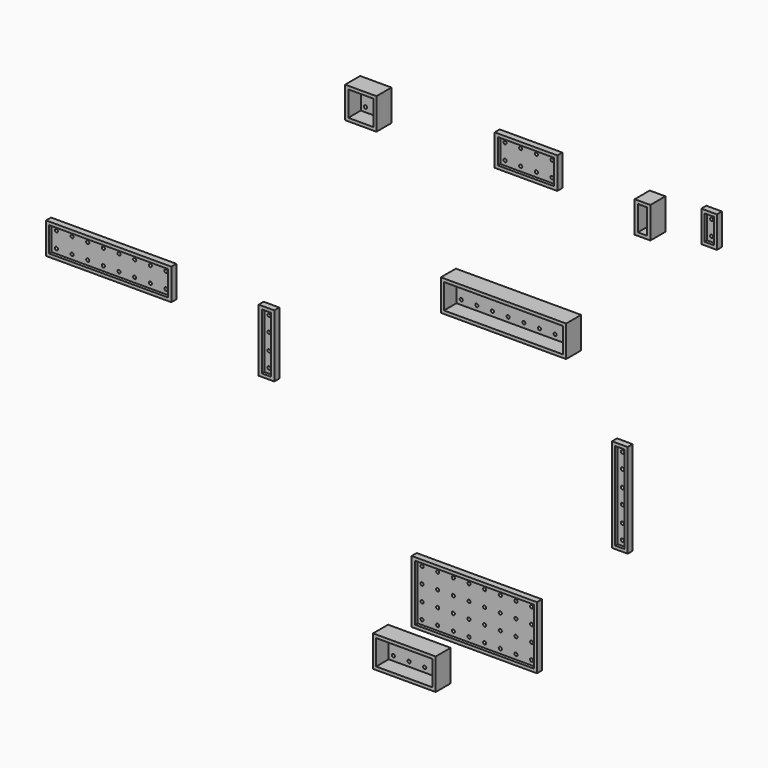
from build123d import *

# Parameters (mm, degrees)
F0_W      = 15.875
F0_H      = 15.875
F0_R      = 2.38125
F1_DEPTH  = 9.525
F2_DEPTH  = 1.5875
F3_T      = -1.5875
F4_DEPTH  = 3.175
F5_DEPTH  = 1.5875
F6_T      = -1.5875
F7_DEPTH  = 9.525
F0_W_2    = 7.9248
F8_DEPTH  = 9.525
F9_DEPTH  = 1.5875
F10_DEPTH = 1.5875
F11_DEPTH = 1.5875
F12_DEPTH = 3.175
F13_DEPTH = 1.5875
F14_DEPTH = 1.5875
F15_DEPTH = 1.5875
F16_T     = -1.5875
F16_2_T   = -1.5875
F16_3_T   = -1.5875
F16_4_T   = -1.5875
F16_5_T   = -1.5875
F16_6_T   = -1.5875
F17_DEPTH = 3.175
F18_DEPTH = 1.5875
F19_DEPTH = 1.5875
F20_T     = -1.5875
F20_2_T   = -1.5875


with BuildPart() as f1:
    # F0 (on Front) → F1 (new body)
    with BuildSketch(Plane.XZ):
        with Locations((-105.0475684885, 118.7287792563)):
            Rectangle(F0_W, F0_H)
        with Locations((-109.0163184885, 114.7600292563)):
            Circle(F0_R, mode=Mode.SUBTRACT)
        with Locations((-101.0788184885, 114.7600292563)):
            Circle(F0_R, mode=Mode.SUBTRACT)
        with Locations((-109.0163184885, 122.6975292563)):
            Circle(F0_R, mode=Mode.SUBTRACT)
        with Locations((-101.0788184885, 122.6975292563)):
            Circle(F0_R, mode=Mode.SUBTRACT)
        with Locations((-109.0163184885, 114.7600292563)):
            Circle(F0_R)
        with Locations((-109.0163184885, 122.6975292563)):
            Circle(F0_R)
        with Locations((-101.0788184885, 122.6975292563)):
            Circle(F0_R)
        with Locations((-101.0788184885, 114.7600292563)):
            Circle(F0_R)
    extrude(amount=F1_DEPTH)

    # F0 (on Front) → F2 (join)
    with BuildSketch(Plane.XZ):
        with Locations((-109.0163184885, 114.7600292563)):
            Circle(F0_R)
        with Locations((-101.0788184885, 114.7600292563)):
            Circle(F0_R)
        with Locations((-109.0163184885, 122.6975292563)):
            Circle(F0_R)
        with Locations((-101.0788184885, 122.6975292563)):
            Circle(F0_R)
    extrude(amount=-F2_DEPTH)

    # F3
    f3_openings = [f1.faces().sort_by_distance(p)[0] for p in [
        (-105.047568, -9.525, 118.728779),
    ]]
    offset(amount=F3_T, openings=f3_openings, kind=Kind.INTERSECTION)


with BuildPart() as f4:
    # F0 (on Front) → F4 (new body)
    with BuildSketch(Plane.XZ):
        with Locations((-18.4135721939, 117.8791224957)):
            Rectangle(F0_W, F0_H)
        with Locations((-22.3823221939, 113.9103724957)):
            Circle(F0_R, mode=Mode.SUBTRACT)
        with Locations((-14.4448221939, 113.9103724957)):
            Circle(F0_R, mode=Mode.SUBTRACT)
        with Locations((-22.3823221939, 121.8478724957)):
            Circle(F0_R, mode=Mode.SUBTRACT)
        with Locations((-14.4448221939, 121.8478724957)):
            Circle(F0_R, mode=Mode.SUBTRACT)
        with Locations((-34.2885721939, 117.8791224957)):
            Rectangle(F0_W, F0_H)
        with Locations((-38.2573221939, 113.9103724957)):
            Circle(F0_R, mode=Mode.SUBTRACT)
        with Locations((-38.2573221939, 121.8478724957)):
            Circle(F0_R, mode=Mode.SUBTRACT)
        with Locations((-30.3198221939, 113.9103724957)):
            Circle(F0_R, mode=Mode.SUBTRACT)
        with Locations((-30.3198221939, 121.8478724957)):
            Circle(F0_R, mode=Mode.SUBTRACT)
        with Locations((-22.3823221939, 121.8478724957)):
            Circle(F0_R)
        with Locations((-22.3823221939, 113.9103724957)):
            Circle(F0_R)
        with Locations((-14.4448221939, 113.9103724957)):
            Circle(F0_R)
        with Locations((-30.3198221939, 113.9103724957)):
            Circle(F0_R)
        with Locations((-38.2573221939, 121.8478724957)):
            Circle(F0_R)
        with Locations((-38.2573221939, 113.9103724957)):
            Circle(F0_R)
        with Locations((-14.4448221939, 121.8478724957)):
            Circle(F0_R)
        with Locations((-30.3198221939, 121.8478724957)):
            Circle(F0_R)
    extrude(amount=F4_DEPTH)

    # F0 (on Front) → F5 (join)
    with BuildSketch(Plane.XZ):
        with Locations((-38.2573221939, 113.9103724957)):
            Circle(F0_R)
        with Locations((-14.4448221939, 121.8478724957)):
            Circle(F0_R)
        with Locations((-30.3198221939, 113.9103724957)):
            Circle(F0_R)
        with Locations((-38.2573221939, 121.8478724957)):
            Circle(F0_R)
        with Locations((-22.3823221939, 113.9103724957)):
            Circle(F0_R)
        with Locations((-14.4448221939, 113.9103724957)):
            Circle(F0_R)
        with Locations((-30.3198221939, 121.8478724957)):
            Circle(F0_R)
        with Locations((-22.3823221939, 121.8478724957)):
            Circle(F0_R)
    extrude(amount=-F5_DEPTH)

    # F6
    f6_openings = [f4.faces().sort_by_distance(p)[0] for p in [
        (-26.351072, -3.175, 117.879122),
    ]]
    offset(amount=F6_T, openings=f6_openings, kind=Kind.INTERSECTION)


with BuildPart() as f7:
    # F0 (on Front) → F7 (new body)
    with BuildSketch(Plane.XZ):
        with Locations((-56.5135721939, 48.5175415816)):
            Rectangle(F0_W, F0_H)
        with Locations((-60.4823221939, 44.5487915816)):
            Circle(F0_R, mode=Mode.SUBTRACT)
        with Locations((-52.5448221939, 44.5487915816)):
            Circle(F0_R, mode=Mode.SUBTRACT)
        with Locations((-60.4823221939, 52.4862915816)):
            Circle(F0_R, mode=Mode.SUBTRACT)
        with Locations((-52.5448221939, 52.4862915816)):
            Circle(F0_R, mode=Mode.SUBTRACT)
        with Locations((-8.8885721939, 48.5175415816)):
            Rectangle(F0_W, F0_H)
        with Locations((-12.8573221939, 44.5487915816)):
            Circle(F0_R, mode=Mode.SUBTRACT)
        with Locations((-4.9198221939, 44.5487915816)):
            Circle(F0_R, mode=Mode.SUBTRACT)
        with Locations((-12.8573221939, 52.4862915816)):
            Circle(F0_R, mode=Mode.SUBTRACT)
        with Locations((-4.9198221939, 52.4862915816)):
            Circle(F0_R, mode=Mode.SUBTRACT)
        with Locations((-24.7635721939, 48.5175415816)):
            Rectangle(F0_W, F0_H)
        with Locations((-28.7323221939, 44.5487915816)):
            Circle(F0_R, mode=Mode.SUBTRACT)
        with Locations((-20.7948221939, 44.5487915816)):
            Circle(F0_R, mode=Mode.SUBTRACT)
        with Locations((-28.7323221939, 52.4862915816)):
            Circle(F0_R, mode=Mode.SUBTRACT)
        with Locations((-20.7948221939, 52.4862915816)):
            Circle(F0_R, mode=Mode.SUBTRACT)
        with Locations((-40.6385721939, 48.5175415816)):
            Rectangle(F0_W, F0_H)
        with Locations((-44.6073221939, 44.5487915816)):
            Circle(F0_R, mode=Mode.SUBTRACT)
        with Locations((-36.6698221939, 44.5487915816)):
            Circle(F0_R, mode=Mode.SUBTRACT)
        with Locations((-44.6073221939, 52.4862915816)):
            Circle(F0_R, mode=Mode.SUBTRACT)
        with Locations((-36.6698221939, 52.4862915816)):
            Circle(F0_R, mode=Mode.SUBTRACT)
        with Locations((-4.9198221939, 52.4862915816)):
            Circle(F0_R)
        with Locations((-12.8573221939, 52.4862915816)):
            Circle(F0_R)
        with Locations((-20.7948221939, 52.4862915816)):
            Circle(F0_R)
        with Locations((-28.7323221939, 52.4862915816)):
            Circle(F0_R)
        with Locations((-28.7323221939, 44.5487915816)):
            Circle(F0_R)
        with Locations((-36.6698221939, 44.5487915816)):
            Circle(F0_R)
        with Locations((-60.4823221939, 52.4862915816)):
            Circle(F0_R)
        with Locations((-52.5448221939, 44.5487915816)):
            Circle(F0_R)
        with Locations((-44.6073221939, 52.4862915816)):
            Circle(F0_R)
        with Locations((-12.8573221939, 44.5487915816)):
            Circle(F0_R)
        with Locations((-52.5448221939, 52.4862915816)):
            Circle(F0_R)
        with Locations((-4.9198221939, 44.5487915816)):
            Circle(F0_R)
        with Locations((-20.7948221939, 44.5487915816)):
            Circle(F0_R)
        with Locations((-44.6073221939, 44.5487915816)):
            Circle(F0_R)
        with Locations((-36.6698221939, 52.4862915816)):
            Circle(F0_R)
        with Locations((-60.4823221939, 44.5487915816)):
            Circle(F0_R)
    extrude(amount=F7_DEPTH)

    # F0 (on Front) → F11 (join)
    with BuildSketch(Plane.XZ):
        with Locations((-52.5448221939, 44.5487915816)):
            Circle(F0_R)
        with Locations((-60.4823221939, 52.4862915816)):
            Circle(F0_R)
        with Locations((-4.9198221939, 52.4862915816)):
            Circle(F0_R)
        with Locations((-12.8573221939, 52.4862915816)):
            Circle(F0_R)
        with Locations((-52.5448221939, 52.4862915816)):
            Circle(F0_R)
        with Locations((-20.7948221939, 44.5487915816)):
            Circle(F0_R)
        with Locations((-44.6073221939, 44.5487915816)):
            Circle(F0_R)
        with Locations((-4.9198221939, 44.5487915816)):
            Circle(F0_R)
        with Locations((-60.4823221939, 44.5487915816)):
            Circle(F0_R)
        with Locations((-28.7323221939, 52.4862915816)):
            Circle(F0_R)
        with Locations((-20.7948221939, 52.4862915816)):
            Circle(F0_R)
        with Locations((-12.8573221939, 44.5487915816)):
            Circle(F0_R)
        with Locations((-36.6698221939, 52.4862915816)):
            Circle(F0_R)
        with Locations((-36.6698221939, 44.5487915816)):
            Circle(F0_R)
        with Locations((-28.7323221939, 44.5487915816)):
            Circle(F0_R)
        with Locations((-44.6073221939, 52.4862915816)):
            Circle(F0_R)
    extrude(amount=-F11_DEPTH)

    # F16#3
    f16_3_openings = [f7.faces().sort_by_distance(p)[0] for p in [
        (-32.701072, -9.525, 48.517542),
    ]]
    offset(amount=F16_3_T, openings=f16_3_openings, kind=Kind.INTERSECTION)


with BuildPart() as f7b:
    # F0 (on Front) → F7, piece 2 (new body)
    with BuildSketch(Plane.XZ):
        with Locations((37.80933712, 115.340793252)):
            Rectangle(F0_W_2, F0_H)
        with Locations((37.80933712, 111.530793252)):
            Circle(F0_R, mode=Mode.SUBTRACT)
        with Locations((37.80933712, 119.138093252)):
            Circle(F0_R, mode=Mode.SUBTRACT)
        with Locations((37.80933712, 119.138093252)):
            Circle(F0_R)
        with Locations((37.80933712, 111.530793252)):
            Circle(F0_R)
    extrude(amount=F7_DEPTH)

    # F0 (on Front) → F10 (join)
    with BuildSketch(Plane.XZ):
        with Locations((37.80933712, 119.138093252)):
            Circle(F0_R)
        with Locations((37.80933712, 111.530793252)):
            Circle(F0_R)
    extrude(amount=-F10_DEPTH)

    # F16#2
    f16_2_openings = [f7b.faces().sort_by_distance(p)[0] for p in [
        (37.809337, -9.525, 115.340793),
    ]]
    offset(amount=F16_2_T, openings=f16_2_openings, kind=Kind.INTERSECTION)


with BuildPart() as f8:
    # F0 (on Front) → F8 (new body)
    with BuildSketch(Plane.XZ):
        with Locations((-75.0100264626, -121.5956717787)):
            Rectangle(F0_W, F0_H)
        with Locations((-78.9787764626, -125.5644217787)):
            Circle(F0_R, mode=Mode.SUBTRACT)
        with Locations((-71.0412764626, -125.5644217787)):
            Circle(F0_R, mode=Mode.SUBTRACT)
        with Locations((-78.9787764626, -117.6269217787)):
            Circle(F0_R, mode=Mode.SUBTRACT)
        with Locations((-71.0412764626, -117.6269217787)):
            Circle(F0_R, mode=Mode.SUBTRACT)
        with Locations((-90.8850264626, -121.5956717787)):
            Rectangle(F0_W, F0_H)
        with Locations((-94.8537764626, -125.5644217787)):
            Circle(F0_R, mode=Mode.SUBTRACT)
        with Locations((-86.9162764626, -125.5644217787)):
            Circle(F0_R, mode=Mode.SUBTRACT)
        with Locations((-94.8537764626, -117.6269217787)):
            Circle(F0_R, mode=Mode.SUBTRACT)
        with Locations((-86.9162764626, -117.6269217787)):
            Circle(F0_R, mode=Mode.SUBTRACT)
        with Locations((-71.0412764626, -125.5644217787)):
            Circle(F0_R)
        with Locations((-94.8537764626, -117.6269217787)):
            Circle(F0_R)
        with Locations((-78.9787764626, -117.6269217787)):
            Circle(F0_R)
        with Locations((-86.9162764626, -125.5644217787)):
            Circle(F0_R)
        with Locations((-78.9787764626, -125.5644217787)):
            Circle(F0_R)
        with Locations((-94.8537764626, -125.5644217787)):
            Circle(F0_R)
        with Locations((-86.9162764626, -117.6269217787)):
            Circle(F0_R)
        with Locations((-71.0412764626, -117.6269217787)):
            Circle(F0_R)
    extrude(amount=F8_DEPTH)

    # F0 (on Front) → F9 (join)
    with BuildSketch(Plane.XZ):
        with Locations((-86.9162764626, -117.6269217787)):
            Circle(F0_R)
        with Locations((-78.9787764626, -125.5644217787)):
            Circle(F0_R)
        with Locations((-94.8537764626, -125.5644217787)):
            Circle(F0_R)
        with Locations((-78.9787764626, -117.6269217787)):
            Circle(F0_R)
        with Locations((-71.0412764626, -125.5644217787)):
            Circle(F0_R)
        with Locations((-94.8537764626, -117.6269217787)):
            Circle(F0_R)
        with Locations((-86.9162764626, -125.5644217787)):
            Circle(F0_R)
        with Locations((-71.0412764626, -117.6269217787)):
            Circle(F0_R)
    extrude(amount=-F9_DEPTH)

    # F16#5
    f16_5_openings = [f8.faces().sort_by_distance(p)[0] for p in [
        (-82.947526, -9.525, -121.595672),
    ]]
    offset(amount=F16_5_T, openings=f16_5_openings, kind=Kind.INTERSECTION)


with BuildPart() as f12:
    # F0 (on Front) → F12 (new body)
    with BuildSketch(Plane.XZ):
        with Locations((-44.6284470039, -100.7709637342)):
            Rectangle(F0_W, F0_H)
        with Locations((-48.5971970039, -104.7397137342)):
            Circle(F0_R, mode=Mode.SUBTRACT)
        with Locations((-40.6596970039, -104.7397137342)):
            Circle(F0_R, mode=Mode.SUBTRACT)
        with Locations((-48.5971970039, -96.8022137342)):
            Circle(F0_R, mode=Mode.SUBTRACT)
        with Locations((-40.6596970039, -96.8022137342)):
            Circle(F0_R, mode=Mode.SUBTRACT)
        with Locations((-76.3784470039, -100.7709637342)):
            Rectangle(F0_W, F0_H)
        with Locations((-80.3471970039, -104.7397137342)):
            Circle(F0_R, mode=Mode.SUBTRACT)
        with Locations((-72.4096970039, -104.7397137342)):
            Circle(F0_R, mode=Mode.SUBTRACT)
        with Locations((-80.3471970039, -96.8022137342)):
            Circle(F0_R, mode=Mode.SUBTRACT)
        with Locations((-72.4096970039, -96.8022137342)):
            Circle(F0_R, mode=Mode.SUBTRACT)
        with Locations((-28.7534470039, -84.8959637342)):
            Rectangle(F0_W, F0_H)
        with Locations((-32.7221970039, -88.8647137342)):
            Circle(F0_R, mode=Mode.SUBTRACT)
        with Locations((-24.7846970039, -88.8647137342)):
            Circle(F0_R, mode=Mode.SUBTRACT)
        with Locations((-32.7221970039, -80.9272137342)):
            Circle(F0_R, mode=Mode.SUBTRACT)
        with Locations((-24.7846970039, -80.9272137342)):
            Circle(F0_R, mode=Mode.SUBTRACT)
        with Locations((-28.7534470039, -100.7709637342)):
            Rectangle(F0_W, F0_H)
        with Locations((-32.7221970039, -104.7397137342)):
            Circle(F0_R, mode=Mode.SUBTRACT)
        with Locations((-24.7846970039, -104.7397137342)):
            Circle(F0_R, mode=Mode.SUBTRACT)
        with Locations((-32.7221970039, -96.8022137342)):
            Circle(F0_R, mode=Mode.SUBTRACT)
        with Locations((-24.7846970039, -96.8022137342)):
            Circle(F0_R, mode=Mode.SUBTRACT)
        with Locations((-60.5034470039, -100.7709637342)):
            Rectangle(F0_W, F0_H)
        with Locations((-64.4721970039, -104.7397137342)):
            Circle(F0_R, mode=Mode.SUBTRACT)
        with Locations((-56.5346970039, -104.7397137342)):
            Circle(F0_R, mode=Mode.SUBTRACT)
        with Locations((-64.4721970039, -96.8022137342)):
            Circle(F0_R, mode=Mode.SUBTRACT)
        with Locations((-56.5346970039, -96.8022137342)):
            Circle(F0_R, mode=Mode.SUBTRACT)
        with Locations((-44.6284470039, -84.8959637342)):
            Rectangle(F0_W, F0_H)
        with Locations((-48.5971970039, -88.8647137342)):
            Circle(F0_R, mode=Mode.SUBTRACT)
        with Locations((-40.6596970039, -88.8647137342)):
            Circle(F0_R, mode=Mode.SUBTRACT)
        with Locations((-48.5971970039, -80.9272137342)):
            Circle(F0_R, mode=Mode.SUBTRACT)
        with Locations((-40.6596970039, -80.9272137342)):
            Circle(F0_R, mode=Mode.SUBTRACT)
        with Locations((-60.5034470039, -84.8959637342)):
            Rectangle(F0_W, F0_H)
        with Locations((-64.4721970039, -88.8647137342)):
            Circle(F0_R, mode=Mode.SUBTRACT)
        with Locations((-56.5346970039, -88.8647137342)):
            Circle(F0_R, mode=Mode.SUBTRACT)
        with Locations((-64.4721970039, -80.9272137342)):
            Circle(F0_R, mode=Mode.SUBTRACT)
        with Locations((-56.5346970039, -80.9272137342)):
            Circle(F0_R, mode=Mode.SUBTRACT)
        with Locations((-76.3784470039, -84.8959637342)):
            Rectangle(F0_W, F0_H)
        with Locations((-80.3471970039, -88.8647137342)):
            Circle(F0_R, mode=Mode.SUBTRACT)
        with Locations((-72.4096970039, -88.8647137342)):
            Circle(F0_R, mode=Mode.SUBTRACT)
        with Locations((-80.3471970039, -80.9272137342)):
            Circle(F0_R, mode=Mode.SUBTRACT)
        with Locations((-72.4096970039, -80.9272137342)):
            Circle(F0_R, mode=Mode.SUBTRACT)
        with Locations((-24.7846970039, -80.9272137342)):
            Circle(F0_R)
        with Locations((-24.7846970039, -96.8022137342)):
            Circle(F0_R)
        with Locations((-56.5346970039, -80.9272137342)):
            Circle(F0_R)
        with Locations((-56.5346970039, -104.7397137342)):
            Circle(F0_R)
        with Locations((-64.4721970039, -96.8022137342)):
            Circle(F0_R)
        with Locations((-48.5971970039, -88.8647137342)):
            Circle(F0_R)
        with Locations((-24.7846970039, -88.8647137342)):
            Circle(F0_R)
        with Locations((-64.4721970039, -80.9272137342)):
            Circle(F0_R)
        with Locations((-64.4721970039, -88.8647137342)):
            Circle(F0_R)
        with Locations((-72.4096970039, -88.8647137342)):
            Circle(F0_R)
        with Locations((-32.7221970039, -88.8647137342)):
            Circle(F0_R)
        with Locations((-80.3471970039, -104.7397137342)):
            Circle(F0_R)
        with Locations((-32.7221970039, -96.8022137342)):
            Circle(F0_R)
        with Locations((-32.7221970039, -80.9272137342)):
            Circle(F0_R)
        with Locations((-40.6596970039, -88.8647137342)):
            Circle(F0_R)
        with Locations((-80.3471970039, -80.9272137342)):
            Circle(F0_R)
        with Locations((-48.5971970039, -96.8022137342)):
            Circle(F0_R)
        with Locations((-56.5346970039, -88.8647137342)):
            Circle(F0_R)
        with Locations((-72.4096970039, -104.7397137342)):
            Circle(F0_R)
        with Locations((-72.4096970039, -80.9272137342)):
            Circle(F0_R)
        with Locations((-72.4096970039, -96.8022137342)):
            Circle(F0_R)
        with Locations((-40.6596970039, -96.8022137342)):
            Circle(F0_R)
        with Locations((-48.5971970039, -104.7397137342)):
            Circle(F0_R)
        with Locations((-32.7221970039, -104.7397137342)):
            Circle(F0_R)
        with Locations((-80.3471970039, -96.8022137342)):
            Circle(F0_R)
        with Locations((-64.4721970039, -104.7397137342)):
            Circle(F0_R)
        with Locations((-40.6596970039, -104.7397137342)):
            Circle(F0_R)
        with Locations((-40.6596970039, -80.9272137342)):
            Circle(F0_R)
        with Locations((-24.7846970039, -104.7397137342)):
            Circle(F0_R)
        with Locations((-56.5346970039, -96.8022137342)):
            Circle(F0_R)
        with Locations((-80.3471970039, -88.8647137342)):
            Circle(F0_R)
        with Locations((-48.5971970039, -80.9272137342)):
            Circle(F0_R)
    extrude(amount=F12_DEPTH)

    # F0 (on Front) → F13 (join)
    with BuildSketch(Plane.XZ):
        with Locations((-48.5971970039, -88.8647137342)):
            Circle(F0_R)
        with Locations((-64.4721970039, -96.8022137342)):
            Circle(F0_R)
        with Locations((-64.4721970039, -80.9272137342)):
            Circle(F0_R)
        with Locations((-48.5971970039, -96.8022137342)):
            Circle(F0_R)
        with Locations((-32.7221970039, -80.9272137342)):
            Circle(F0_R)
        with Locations((-72.4096970039, -96.8022137342)):
            Circle(F0_R)
        with Locations((-40.6596970039, -88.8647137342)):
            Circle(F0_R)
        with Locations((-24.7846970039, -88.8647137342)):
            Circle(F0_R)
        with Locations((-48.5971970039, -104.7397137342)):
            Circle(F0_R)
        with Locations((-80.3471970039, -104.7397137342)):
            Circle(F0_R)
        with Locations((-80.3471970039, -80.9272137342)):
            Circle(F0_R)
        with Locations((-48.5971970039, -80.9272137342)):
            Circle(F0_R)
        with Locations((-24.7846970039, -104.7397137342)):
            Circle(F0_R)
        with Locations((-64.4721970039, -88.8647137342)):
            Circle(F0_R)
        with Locations((-56.5346970039, -104.7397137342)):
            Circle(F0_R)
        with Locations((-80.3471970039, -88.8647137342)):
            Circle(F0_R)
        with Locations((-56.5346970039, -96.8022137342)):
            Circle(F0_R)
        with Locations((-40.6596970039, -104.7397137342)):
            Circle(F0_R)
        with Locations((-56.5346970039, -88.8647137342)):
            Circle(F0_R)
        with Locations((-40.6596970039, -96.8022137342)):
            Circle(F0_R)
        with Locations((-72.4096970039, -104.7397137342)):
            Circle(F0_R)
        with Locations((-72.4096970039, -80.9272137342)):
            Circle(F0_R)
        with Locations((-24.7846970039, -96.8022137342)):
            Circle(F0_R)
        with Locations((-32.7221970039, -96.8022137342)):
            Circle(F0_R)
        with Locations((-40.6596970039, -80.9272137342)):
            Circle(F0_R)
        with Locations((-56.5346970039, -80.9272137342)):
            Circle(F0_R)
        with Locations((-24.7846970039, -80.9272137342)):
            Circle(F0_R)
        with Locations((-64.4721970039, -104.7397137342)):
            Circle(F0_R)
        with Locations((-72.4096970039, -88.8647137342)):
            Circle(F0_R)
        with Locations((-80.3471970039, -96.8022137342)):
            Circle(F0_R)
        with Locations((-32.7221970039, -104.7397137342)):
            Circle(F0_R)
        with Locations((-32.7221970039, -88.8647137342)):
            Circle(F0_R)
    extrude(amount=-F13_DEPTH)

    # F16#4
    f16_4_openings = [f12.faces().sort_by_distance(p)[0] for p in [
        (-52.565947, -3.175, -92.833464),
    ]]
    offset(amount=F16_4_T, openings=f16_4_openings, kind=Kind.INTERSECTION)


with BuildPart() as f12b:
    # F0 (on Front) → F12, piece 2 (new body)
    with BuildSketch(Plane.XZ):
        with Locations((66.4728529332, 117.8890139092)):
            Rectangle(F0_W_2, F0_H)
        with Locations((66.4728529332, 114.0790139092)):
            Circle(F0_R, mode=Mode.SUBTRACT)
        with Locations((66.4728529332, 121.6863139092)):
            Circle(F0_R, mode=Mode.SUBTRACT)
        with Locations((66.4728529332, 121.6863139092)):
            Circle(F0_R)
        with Locations((66.4728529332, 114.0790139092)):
            Circle(F0_R)
    extrude(amount=F12_DEPTH)

    # F0 (on Front) → F15 (join)
    with BuildSketch(Plane.XZ):
        with Locations((66.4728529332, 121.6863139092)):
            Circle(F0_R)
        with Locations((66.4728529332, 114.0790139092)):
            Circle(F0_R)
    extrude(amount=-F15_DEPTH)

    # F16
    f16_openings = [f12b.faces().sort_by_distance(p)[0] for p in [
        (66.472853, -3.175, 117.889014),
    ]]
    offset(amount=F16_T, openings=f16_openings, kind=Kind.INTERSECTION)


with BuildPart() as f12c:
    # F0 (on Front) → F12, piece 3 (new body)
    with BuildSketch(Plane.XZ):
        with Locations((21.2289360493, -32.4386801479)):
            Rectangle(F0_W_2, F0_H)
        with Locations((21.2289360493, -36.2486801479)):
            Circle(F0_R, mode=Mode.SUBTRACT)
        with Locations((21.2289360493, -28.6413801479)):
            Circle(F0_R, mode=Mode.SUBTRACT)
        with Locations((21.2289360493, -16.5636801479)):
            Rectangle(F0_W_2, F0_H)
        with Locations((21.2289360493, -20.3736801479)):
            Circle(F0_R, mode=Mode.SUBTRACT)
        with Locations((21.2289360493, -12.7663801479)):
            Circle(F0_R, mode=Mode.SUBTRACT)
        with Locations((21.2289360493, -0.6886801479)):
            Rectangle(F0_W_2, F0_H)
        with Locations((21.2289360493, -4.4986801479)):
            Circle(F0_R, mode=Mode.SUBTRACT)
        with Locations((21.2289360493, 3.1086198521)):
            Circle(F0_R, mode=Mode.SUBTRACT)
        with Locations((21.2289360493, -28.6413801479)):
            Circle(F0_R)
        with Locations((21.2289360493, -12.7663801479)):
            Circle(F0_R)
        with Locations((21.2289360493, -20.3736801479)):
            Circle(F0_R)
        with Locations((21.2289360493, -36.2486801479)):
            Circle(F0_R)
        with Locations((21.2289360493, 3.1086198521)):
            Circle(F0_R)
        with Locations((21.2289360493, -4.4986801479)):
            Circle(F0_R)
    extrude(amount=F12_DEPTH)

    # F0 (on Front) → F14 (join)
    with BuildSketch(Plane.XZ):
        with Locations((21.2289360493, -28.6413801479)):
            Circle(F0_R)
        with Locations((21.2289360493, -20.3736801479)):
            Circle(F0_R)
        with Locations((21.2289360493, -4.4986801479)):
            Circle(F0_R)
        with Locations((21.2289360493, 3.1086198521)):
            Circle(F0_R)
        with Locations((21.2289360493, -12.7663801479)):
            Circle(F0_R)
        with Locations((21.2289360493, -36.2486801479)):
            Circle(F0_R)
    extrude(amount=-F14_DEPTH)

    # F16#6
    f16_6_openings = [f12c.faces().sort_by_distance(p)[0] for p in [
        (21.228936, -3.175, -16.56368),
    ]]
    offset(amount=F16_6_T, openings=f16_6_openings, kind=Kind.INTERSECTION)


with BuildPart() as f17:
    # F0 (on Front) → F17 (new body)
    with BuildSketch(Plane.XZ):
        with Locations((-157.9588684112, -13.8383192329)):
            Rectangle(F0_W_2, F0_H)
        with Locations((-157.9588684112, -17.6483192329)):
            Circle(F0_R, mode=Mode.SUBTRACT)
        with Locations((-157.9588684112, -10.0410192329)):
            Circle(F0_R, mode=Mode.SUBTRACT)
        with Locations((-157.9588684112, 2.0366807671)):
            Rectangle(F0_W_2, F0_H)
        with Locations((-157.9588684112, -1.7733192329)):
            Circle(F0_R, mode=Mode.SUBTRACT)
        with Locations((-157.9588684112, 5.8339807671)):
            Circle(F0_R, mode=Mode.SUBTRACT)
        with Locations((-157.9588684112, -17.6483192329)):
            Circle(F0_R)
        with Locations((-157.9588684112, 5.8339807671)):
            Circle(F0_R)
        with Locations((-157.9588684112, -10.0410192329)):
            Circle(F0_R)
        with Locations((-157.9588684112, -1.7733192329)):
            Circle(F0_R)
    extrude(amount=F17_DEPTH)

    # F0 (on Front) → F19 (join)
    with BuildSketch(Plane.XZ):
        with Locations((-157.9588684112, -17.6483192329)):
            Circle(F0_R)
        with Locations((-157.9588684112, -10.0410192329)):
            Circle(F0_R)
        with Locations((-157.9588684112, 5.8339807671)):
            Circle(F0_R)
        with Locations((-157.9588684112, -1.7733192329)):
            Circle(F0_R)
    extrude(amount=-F19_DEPTH)

    # F20
    f20_openings = [f17.faces().sort_by_distance(p)[0] for p in [
        (-157.958868, -3.175, -5.900819),
    ]]
    offset(amount=F20_T, openings=f20_openings, kind=Kind.INTERSECTION)


with BuildPart() as f17b:
    # F0 (on Front) → F17, piece 2 (new body)
    with BuildSketch(Plane.XZ):
        with Locations((-214.1280273276, 4.5750100108)):
            Rectangle(F0_W, F0_H)
        with Locations((-218.0967773276, 0.6062600108)):
            Circle(F0_R, mode=Mode.SUBTRACT)
        with Locations((-218.0967773276, 8.5437600108)):
            Circle(F0_R, mode=Mode.SUBTRACT)
        with Locations((-210.1592773276, 0.6062600108)):
            Circle(F0_R, mode=Mode.SUBTRACT)
        with Locations((-210.1592773276, 8.5437600108)):
            Circle(F0_R, mode=Mode.SUBTRACT)
        with Locations((-230.0030273276, 4.5750100108)):
            Rectangle(F0_W, F0_H)
        with Locations((-233.9717773276, 0.6062600108)):
            Circle(F0_R, mode=Mode.SUBTRACT)
        with Locations((-226.0342773276, 0.6062600108)):
            Circle(F0_R, mode=Mode.SUBTRACT)
        with Locations((-233.9717773276, 8.5437600108)):
            Circle(F0_R, mode=Mode.SUBTRACT)
        with Locations((-226.0342773276, 8.5437600108)):
            Circle(F0_R, mode=Mode.SUBTRACT)
        with Locations((-245.8780273276, 4.5750100108)):
            Rectangle(F0_W, F0_H)
        with Locations((-249.8467773276, 0.6062600108)):
            Circle(F0_R, mode=Mode.SUBTRACT)
        with Locations((-249.8467773276, 8.5437600108)):
            Circle(F0_R, mode=Mode.SUBTRACT)
        with Locations((-241.9092773276, 0.6062600108)):
            Circle(F0_R, mode=Mode.SUBTRACT)
        with Locations((-241.9092773276, 8.5437600108)):
            Circle(F0_R, mode=Mode.SUBTRACT)
        with Locations((-261.7530273276, 4.5750100108)):
            Rectangle(F0_W, F0_H)
        with Locations((-265.7217773276, 0.6062600108)):
            Circle(F0_R, mode=Mode.SUBTRACT)
        with Locations((-257.7842773276, 0.6062600108)):
            Circle(F0_R, mode=Mode.SUBTRACT)
        with Locations((-265.7217773276, 8.5437600108)):
            Circle(F0_R, mode=Mode.SUBTRACT)
        with Locations((-257.7842773276, 8.5437600108)):
            Circle(F0_R, mode=Mode.SUBTRACT)
        with Locations((-218.0967773276, 8.5437600108)):
            Circle(F0_R)
        with Locations((-210.1592773276, 8.5437600108)):
            Circle(F0_R)
        with Locations((-218.0967773276, 0.6062600108)):
            Circle(F0_R)
        with Locations((-210.1592773276, 0.6062600108)):
            Circle(F0_R)
        with Locations((-226.0342773276, 0.6062600108)):
            Circle(F0_R)
        with Locations((-226.0342773276, 8.5437600108)):
            Circle(F0_R)
        with Locations((-233.9717773276, 8.5437600108)):
            Circle(F0_R)
        with Locations((-233.9717773276, 0.6062600108)):
            Circle(F0_R)
        with Locations((-241.9092773276, 8.5437600108)):
            Circle(F0_R)
        with Locations((-249.8467773276, 8.5437600108)):
            Circle(F0_R)
        with Locations((-249.8467773276, 0.6062600108)):
            Circle(F0_R)
        with Locations((-241.9092773276, 0.6062600108)):
            Circle(F0_R)
        with Locations((-257.7842773276, 8.5437600108)):
            Circle(F0_R)
        with Locations((-265.7217773276, 8.5437600108)):
            Circle(F0_R)
        with Locations((-265.7217773276, 0.6062600108)):
            Circle(F0_R)
        with Locations((-257.7842773276, 0.6062600108)):
            Circle(F0_R)
    extrude(amount=F17_DEPTH)

    # F0 (on Front) → F18 (join)
    with BuildSketch(Plane.XZ):
        with Locations((-265.7217773276, 8.5437600108)):
            Circle(F0_R)
        with Locations((-241.9092773276, 8.5437600108)):
            Circle(F0_R)
        with Locations((-226.0342773276, 0.6062600108)):
            Circle(F0_R)
        with Locations((-210.1592773276, 0.6062600108)):
            Circle(F0_R)
        with Locations((-241.9092773276, 0.6062600108)):
            Circle(F0_R)
        with Locations((-210.1592773276, 8.5437600108)):
            Circle(F0_R)
        with Locations((-249.8467773276, 0.6062600108)):
            Circle(F0_R)
        with Locations((-265.7217773276, 0.6062600108)):
            Circle(F0_R)
        with Locations((-249.8467773276, 8.5437600108)):
            Circle(F0_R)
        with Locations((-218.0967773276, 0.6062600108)):
            Circle(F0_R)
        with Locations((-226.0342773276, 8.5437600108)):
            Circle(F0_R)
        with Locations((-257.7842773276, 0.6062600108)):
            Circle(F0_R)
        with Locations((-233.9717773276, 8.5437600108)):
            Circle(F0_R)
        with Locations((-233.9717773276, 0.6062600108)):
            Circle(F0_R)
        with Locations((-257.7842773276, 8.5437600108)):
            Circle(F0_R)
        with Locations((-218.0967773276, 8.5437600108)):
            Circle(F0_R)
    extrude(amount=-F18_DEPTH)

    # F20#2
    f20_2_openings = [f17b.faces().sort_by_distance(p)[0] for p in [
        (-237.940527, -3.175, 4.57501),
    ]]
    offset(amount=F20_2_T, openings=f20_2_openings, kind=Kind.INTERSECTION)


solid = Compound([f1.part, f4.part, f7.part, f7b.part, f8.part, f12.part, f12b.part, f12c.part, f17.part, f17b.part])
